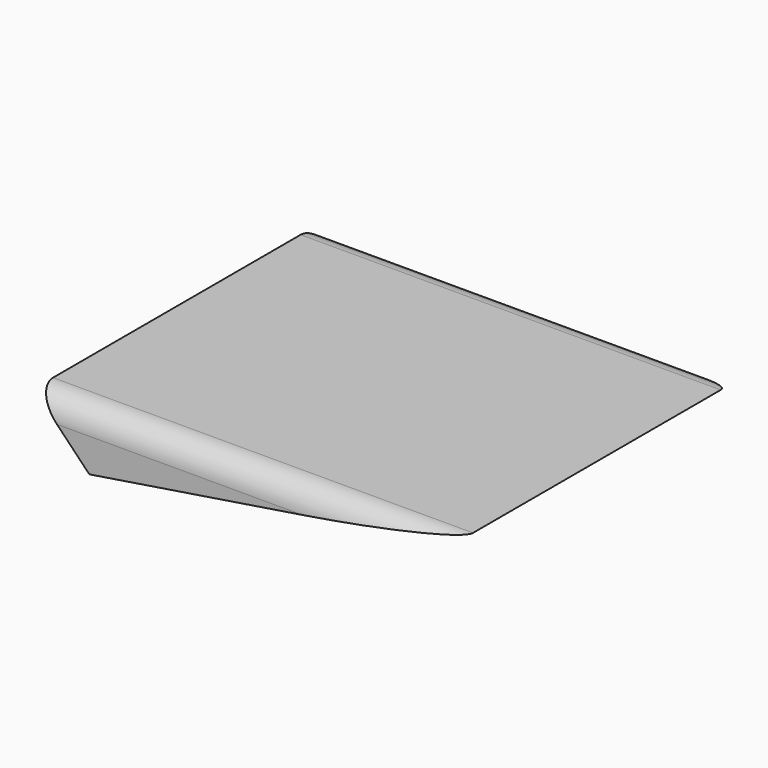
from build123d import *

# Parameters (mm, degrees)
F1_DEPTH = 76.2
F2_R     = 5.08
F3_R     = 5.08


with BuildPart() as f1:
    # F0 (on Front) → F1 (new body)
    with BuildSketch(Plane.XZ):
        Polygon((-40.24671, 7.053584), (37.549719, 19.293554), (-52.071765, 19.293554), align=None)
    extrude(amount=F1_DEPTH)

    # F2
    f2_edges = [f1.edges().sort_by_distance(p)[0] for p in [
        (-7.261023, -76.2, 19.293554),
    ]]
    fillet(f2_edges, radius=F2_R)

    # F3
    f3_edges = [f1.edges().sort_by_distance(p)[0] for p in [
        (-7.261023, 0, 19.293554),
    ]]
    fillet(f3_edges, radius=F3_R)


solid = f1.part
